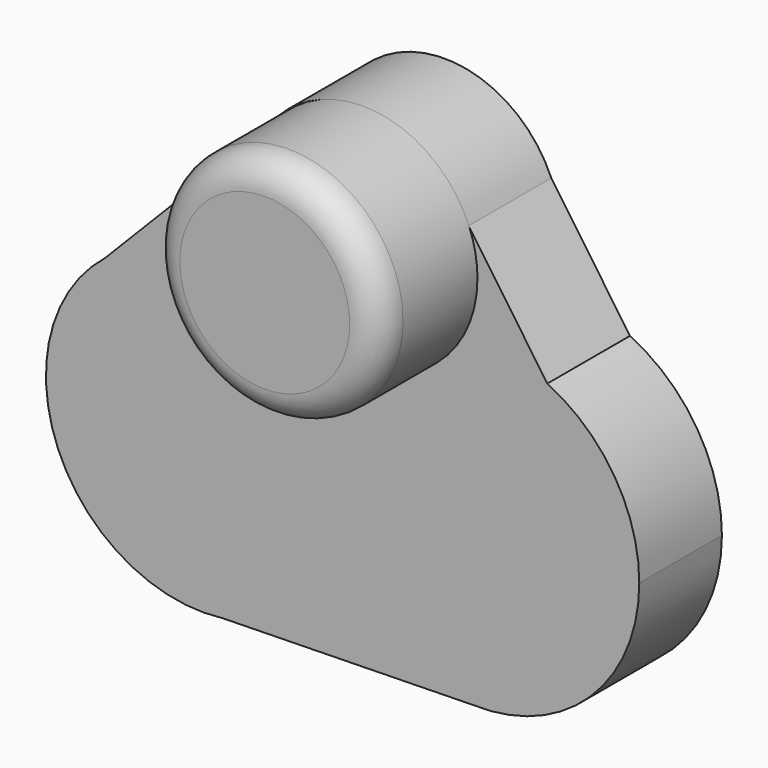
from build123d import *

# Parameters (mm, degrees)
F1_DEPTH = 25.654
F2_R     = 28.4407370428
F3_DEPTH = 30.48
F4_R     = 7.3585229381


with BuildPart() as f1:
    # F0 (on Front) → F1 (new body)
    with BuildSketch(Plane.XZ):
        with BuildLine():
            ThreePointArc((-21.5344435526, 2.0731437555), (-4.8204991058, 5.3895527458), (7.0882450204, 17.5771005261))
            ThreePointArc((7.0882450204, 17.5771005261), (-8.8670748097, 12.8601538234), (-21.5344435526, 2.0731437555))
        make_face()
        with BuildLine():
            ThreePointArc((7.9605099877, 41.948206774), (9.6731432739, 36.4370915007), (10.2517769659, 30.6950807571))
            ThreePointArc((10.2517769659, 30.6950807571), (9.4497176108, 23.9480566036), (7.0882450204, 17.5771005261))
            ThreePointArc((7.0882450204, 17.5771005261), (17.5408909724, 17.0287274663), (27.4955300755, 13.793966155))
            Line((27.4955300755, 13.793966155), (7.9605099877, 41.948206774))
        make_face()
        with BuildLine():
            ThreePointArc((-23.7264411014, -43.725716795), (-36.04104655, -57.2814370335), (-53.1818165378, -63.731325619))
            Line((-53.1818165378, -63.731325619), (8.938396841, -62.4778672324))
            ThreePointArc((8.938396841, -62.4778672324), (-9.7326904365, -57.1755765902), (-23.7264411014, -43.725716795))
        make_face()
        with BuildLine():
            ThreePointArc((-18.9324777024, -24.9800812453), (-20.5427988057, -13.8821683024), (-25.2409413599, -3.6996213576))
            ThreePointArc((-25.2409413599, -3.6996213576), (-29.8392434552, -23.915311506), (-23.7264411014, -43.725716795))
            ThreePointArc((-23.7264411014, -43.725716795), (-20.1499486388, -34.6545442437), (-18.9324777024, -24.9800812453))
        make_face()
        with BuildLine():
            ThreePointArc((27.4955300755, 13.793966155), (17.5408909724, 17.0287274663), (7.0882450204, 17.5771005261))
            ThreePointArc((7.0882450204, 17.5771005261), (-4.8204991058, 5.3895527458), (-21.5344435526, 2.0731437555))
            ThreePointArc((-21.5344435526, 2.0731437555), (-23.5113697235, -0.7338297985), (-25.2409413599, -3.6996213576))
            ThreePointArc((-25.2409413599, -3.6996213576), (-20.5427988057, -13.8821683024), (-18.9324777024, -24.9800812453))
            ThreePointArc((-18.9324777024, -24.9800812453), (-20.1499486388, -34.6545442437), (-23.7264411014, -43.725716795))
            ThreePointArc((-23.7264411014, -43.725716795), (-9.7326904365, -57.1755765902), (8.938396841, -62.4778672324))
            ThreePointArc((8.938396841, -62.4778672324), (38.12540726, -51.2074452523), (50.331310131, -22.3991144449))
            ThreePointArc((50.331310131, -22.3991144449), (44.1452046519, -1.0016149762), (27.4955300755, 13.793966155))
        make_face()
        with BuildLine():
            ThreePointArc((7.0882450204, 17.5771005261), (9.4497176108, 23.9480566036), (10.2517769659, 30.6950807571))
            ThreePointArc((10.2517769659, 30.6950807571), (9.6731432739, 36.4370915007), (7.9605099877, 41.948206774))
            ThreePointArc((7.9605099877, 41.948206774), (-16.4945513192, 59.4026144185), (-43.1654741186, 45.5690231721))
            ThreePointArc((-43.1654741186, 45.5690231721), (-44.2964170336, 17.8799643072), (-21.5344435526, 2.0731437555))
            ThreePointArc((-21.5344435526, 2.0731437555), (-8.8670748097, 12.8601538234), (7.0882450204, 17.5771005261))
        make_face()
        with BuildLine():
            ThreePointArc((-21.5344435526, 2.0731437555), (-44.2964170336, 17.8799643072), (-43.1654741186, 45.5690231721))
            Line((-43.1654741186, 45.5690231721), (-82.2833511654, 5.5814185032))
            ThreePointArc((-82.2833511654, 5.5814185032), (-51.7089264452, 13.5602395088), (-25.2409413599, -3.6996213576))
            ThreePointArc((-25.2409413599, -3.6996213576), (-23.5113697235, -0.7338297985), (-21.5344435526, 2.0731437555))
        make_face()
        with BuildLine():
            ThreePointArc((-25.2409413599, -3.6996213576), (-51.7089264452, 13.5602395088), (-82.2833511654, 5.5814185032))
            ThreePointArc((-82.2833511654, 5.5814185032), (-93.9821658408, -40.0960598334), (-53.1818165378, -63.731325619))
            ThreePointArc((-53.1818165378, -63.731325619), (-36.04104655, -57.2814370335), (-23.7264411014, -43.725716795))
            ThreePointArc((-23.7264411014, -43.725716795), (-29.8392434552, -23.915311506), (-25.2409413599, -3.6996213576))
        make_face()
    extrude(amount=-F1_DEPTH)

    # F2 (on Front) → F3 (join)
    with BuildSketch(Plane.XZ):
        with Locations((-18.2904135436, 31.1521012336)):
            Circle(F2_R)
    extrude(amount=F3_DEPTH)

    # F4
    f4_edges = [f1.edges().sort_by_distance(p)[0] for p in [
        (-46.731151, -30.48, 31.152101),
    ]]
    fillet(f4_edges, radius=F4_R)


solid = f1.part
